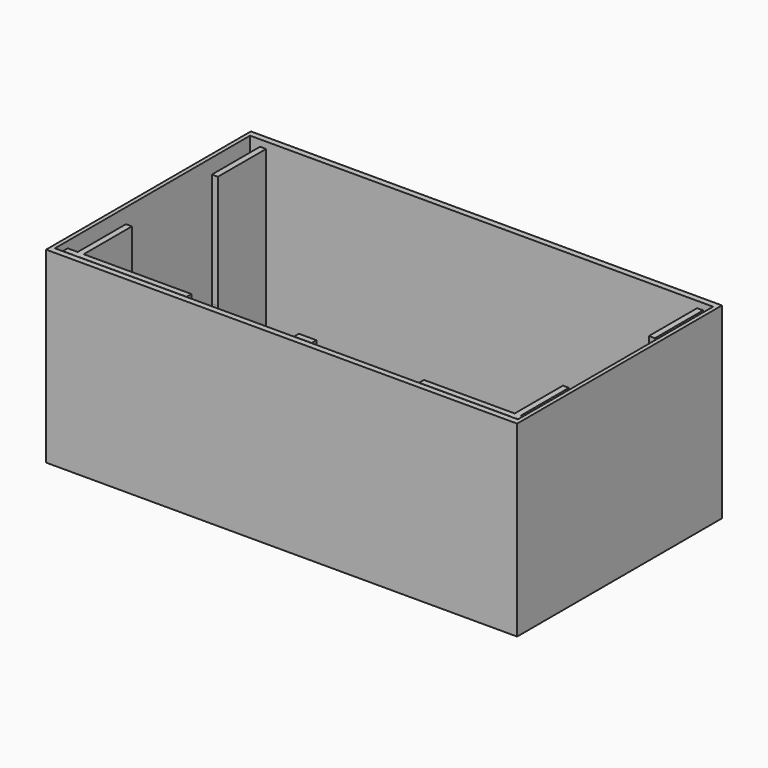
from build123d import *

# Parameters (mm, degrees)
F0_W      = 190
F0_H      = 102.4
F1_DEPTH  = 75
F2_T      = -2.4
F4_DEPTH  = 70
F6_DEPTH  = 2.6
F7_DEPTH  = 176.9
F9_DEPTH  = 2.6
F10_W     = 0.8
F10_H     = 102.4
F11_DEPTH = 75


with BuildPart() as f1:
    # F0 (on Top) → F1 (new body)
    with BuildSketch(Plane.XY):
        with Locations((-3.4108273685, 26.5216542304)):
            Rectangle(F0_W, F0_H)
    extrude(amount=F1_DEPTH)

    # F2
    f2_openings = [f1.faces().sort_by_distance(p)[0] for p in [
        (-3.410827, 26.521654, 75),
    ]]
    offset(amount=F2_T, openings=f2_openings)

    # F3 (on face) → F4 (join)
    with BuildSketch(Plane.XY.offset(2.4)):
        Polygon((-89.6108273685, 75.3216542304), (-92.0108273685, 75.3216542304), (-92.0108273685, -15.8783457696), (-96.0108273685, -15.8783457696), (-96.0108273685, -18.2783457696), (-92.0108273685, -18.2783457696), (-92.0108273685, -22.2783457696), (-89.6108273685, -22.2783457696), (-89.6108273685, -18.2783457696), (82.7891726315, -18.2783457696), (82.7891726315, -22.2783457696), (85.1891726315, -22.2783457696), (85.1891726315, -18.2783457696), (89.1891726315, -18.2783457696), (89.1891726315, -15.8783457696), (85.1891726315, -15.8783457696), (85.1891726315, 75.3216542304), (82.7891726315, 75.3216542304), (82.7891726315, -15.8783457696), (-89.6108273685, -15.8783457696), align=None)
    extrude(amount=F4_DEPTH)

    # F5 (on face) → F6 (cut)
    with BuildSketch(Plane(origin=(82.7891726315, 0, 0), x_dir=(0, -1, 0), z_dir=(-1, 0, 0))):
        with BuildLine():
            Line((-51.2216542304, 72.4), (-51.2216542304, 26.9))
            ThreePointArc((-51.2216542304, 26.9), (-29.7216542304, 5.4), (-8.2216542304, 26.9))
            Line((-8.2216542304, 26.9), (-8.2216542304, 72.4))
            Line((-8.2216542304, 72.4), (-51.2216542304, 72.4))
        make_face()
    extrude(amount=-F6_DEPTH, mode=Mode.SUBTRACT)

    # F5 (on face) → F7 (cut)
    with BuildSketch(Plane(origin=(82.7891726315, 0, 0), x_dir=(0, -1, 0), z_dir=(-1, 0, 0))):
        with BuildLine():
            Line((-51.2216542304, 72.4), (-51.2216542304, 26.9))
            ThreePointArc((-51.2216542304, 26.9), (-29.7216542304, 5.4), (-8.2216542304, 26.9))
            Line((-8.2216542304, 26.9), (-8.2216542304, 72.4))
            Line((-8.2216542304, 72.4), (-51.2216542304, 72.4))
        make_face()
    extrude(amount=F7_DEPTH, mode=Mode.SUBTRACT)

    # F8 (on face) → F9 (cut)
    with BuildSketch(Plane(origin=(0, -15.8783457696, 0), x_dir=(-1, 0, 0), z_dir=(0, 1, 0))):
        with BuildLine():
            Line((3.5, 72.4), (3.5, 26.9))
            ThreePointArc((3.5, 26.9), (25, 5.4), (46.5, 26.9))
            Line((46.5, 26.9), (46.5, 72.4))
            Line((46.5, 72.4), (3.5, 72.4))
        make_face()
        with BuildLine():
            Line((-46.5, 72.4), (-46.5, 26.9))
            ThreePointArc((-46.5, 26.9), (-25, 5.4), (-3.5, 26.9))
            Line((-3.5, 26.9), (-3.5, 72.4))
            Line((-3.5, 72.4), (-46.5, 72.4))
        make_face()
    extrude(amount=-F9_DEPTH, mode=Mode.SUBTRACT)

    # F10 (on face) → F11 (cut)
    with BuildSketch(Plane.XY.offset(75)):
        with Locations((-98.0108273685, 26.5216542304)):
            Rectangle(F10_W, F10_H)
        with Locations((91.1891726315, 26.5216542304)):
            Rectangle(F10_W, F10_H)
    extrude(amount=-F11_DEPTH, mode=Mode.SUBTRACT)


solid = f1.part
